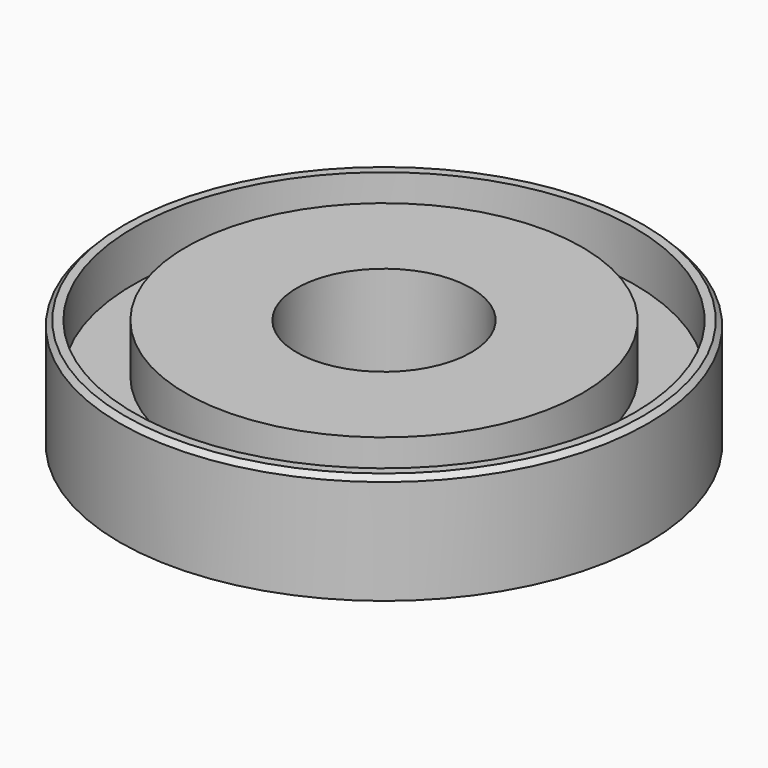
from build123d import *

# Parameters (mm, degrees)
F0_R     = 53
F0_R_2   = 50.25
F1_DEPTH = 22
F0_R_3   = 39.75
F0_R_4   = 17.5
F2_SIZE  = 1
F3_DEPTH = 12
F4_R     = 37.625
F4_R_2   = 17.5
F5_DEPTH = 9
F6_SIZE  = 2


with BuildPart() as f1:
    # F0 (on Top) → F1 (new body)
    with BuildSketch(Plane.XY):
        Circle(F0_R)
        Circle(F0_R_2, mode=Mode.SUBTRACT)
    extrude(amount=F1_DEPTH)

    # F2
    f2_edges = [f1.edges().sort_by_distance(p)[0] for p in [
        (-53, 0, 22),
    ]]
    chamfer(f2_edges, length=F2_SIZE)



with BuildPart() as f1b:
    # F0 (on Top) → F1, piece 2 (new body)
    with BuildSketch(Plane.XY):
        Circle(F0_R_3)
        Circle(F0_R_4, mode=Mode.SUBTRACT)
    extrude(amount=F1_DEPTH)


with BuildPart() as f1_1:
    add(f1.part)

    add(f1b.part)  # F3 merges F1b
    # F0 (on Top) → F3 (join)
    with BuildSketch(Plane.XY):
        Circle(F0_R_2)
        Circle(F0_R_3, mode=Mode.SUBTRACT)
    extrude(amount=F3_DEPTH)

    # F4 (on face) → F5 (join)
    with BuildSketch(Plane.XY):
        Circle(F4_R)
        Circle(F4_R_2, mode=Mode.SUBTRACT)
    extrude(amount=-F5_DEPTH)

    # F6
    f6_edges = [f1_1.edges().sort_by_distance(p)[0] for p in [
        (-37.625, 0, -9),
    ]]
    chamfer(f6_edges, length=F6_SIZE)


solid = f1_1.part
